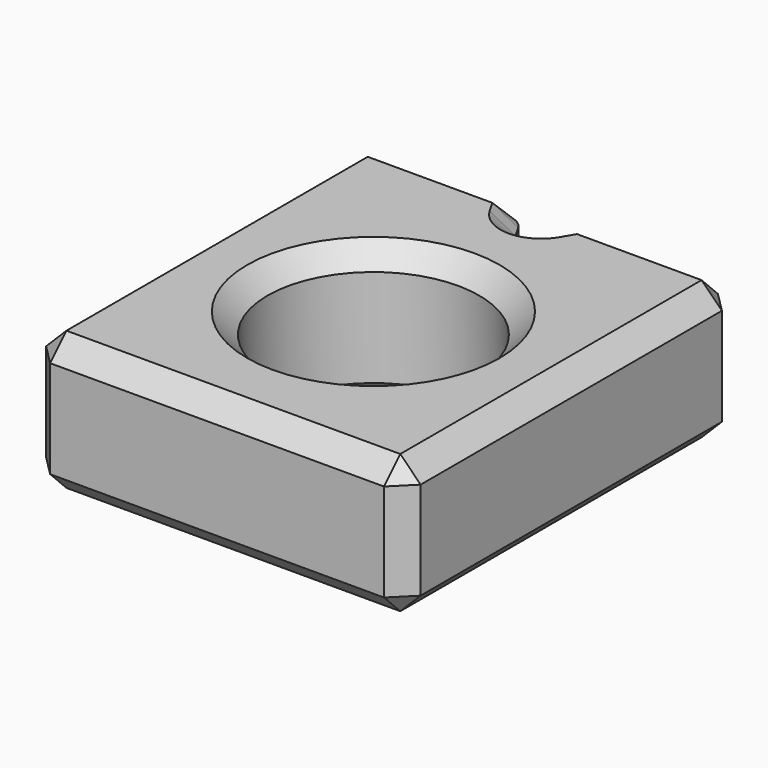
from build123d import *

# Parameters (mm, degrees)
SKETCH101_W     = 9.2
SKETCH101_H     = 3.4
PAD021_DEPTH    = 10.25
SKETCH098_R     = 0.5
POCKET040_DEPTH = 3.401
SKETCH100_R     = 2.6
POCKET041_DEPTH = 3.401
POCKET042_DEPTH = 3.401
FILLET001_R     = 0.5
CHAMFER040_SIZE = 0.5


with BuildPart() as part:
    # Sketch101 → Pad021 (new body)
    with BuildSketch(Plane.XZ):
        Rectangle(SKETCH101_W, SKETCH101_H)
    extrude(amount=PAD021_DEPTH)

    # Sketch098 (on Face1 of Pad021) → Pocket040 (cut, through all)
    with BuildSketch(Plane(origin=(0, 0, -1.7), x_dir=(1, 0, 0), z_dir=(0, 0, -1))):
        with Locations((0, 5.45)):
            Circle(SKETCH098_R)
    extrude(amount=-POCKET040_DEPTH, mode=Mode.SUBTRACT)

    # Sketch100 (on Face7 of Pocket040) → Pocket041 (cut, through all)
    with BuildSketch(Plane(origin=(0, 0, 1.7), x_dir=(-1, 0, 0), z_dir=(0, 0, 1))):
        with Locations((0, 5.45)):
            Circle(SKETCH100_R)
    extrude(amount=-POCKET041_DEPTH, mode=Mode.SUBTRACT)

    # Sketch103 → Pocket042 (cut, through all)
    with BuildSketch(Plane(origin=(0, 0, 1.7), x_dir=(-1, 0, 0), z_dir=(0, 0, 1))):
        Polygon((0.75, 0), (0, 1.299038), (-0.75, 0), align=None)
    extrude(amount=-POCKET042_DEPTH, mode=Mode.SUBTRACT)

    # Fillet001
    fillet001_edges = [part.edges().sort_by_distance(p)[0] for p in [
        (0.75, 0, 0),
        (0, -1.299038, 0),
        (-0.75, 0, 0),
    ]]
    fillet(fillet001_edges, radius=FILLET001_R)

    # Chamfer040
    chamfer040_edges = [part.edges().sort_by_distance(p)[0] for p in [
        (2.819338, 0, 1.7),
        (2.819338, 0, -1.7),
        (4.6, -5.125, -1.7),
        (4.6, -5.125, 1.7),
        (4.6, 0, 0),
        (4.6, -10.25, 0),
        (0, -10.25, -1.7),
        (0, -10.25, 1.7),
        (-4.6, -10.25, 0),
        (-4.6, -5.125, 1.7),
        (-4.6, -5.125, -1.7),
        (-4.6, 0, 0),
        (2.6, -5.45, 1.7),
        (2.6, -5.45, -1.7),
    ]]
    chamfer(chamfer040_edges, length=CHAMFER040_SIZE)


with BuildPart() as part_1:
    # Body020 placement: moved
    add(part.part.moved(Location((15, 20, 2))))


solid = part_1.part
